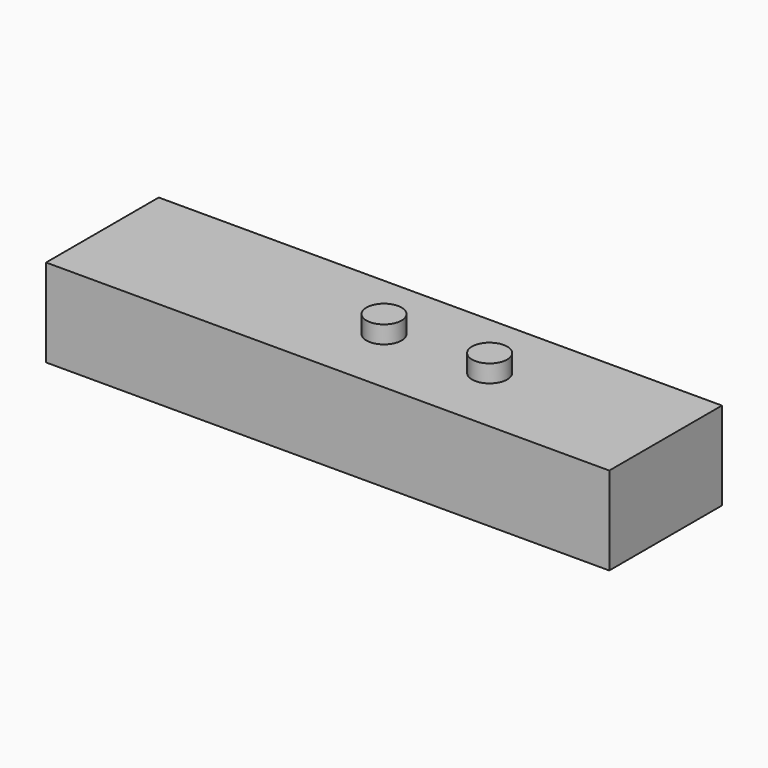
from build123d import *

# Parameters (mm, degrees)
F0_W     = 160
F0_H     = 40
F1_DEPTH = 25
F2_R     = 5
F3_DEPTH = 5


with BuildPart() as f1:
    # F0 (on Top) → F1 (new body)
    with BuildSketch(Plane.XY):
        Rectangle(F0_W, F0_H)
    extrude(amount=F1_DEPTH)

    # F2 (on face) → F3 (join)
    with BuildSketch(Plane.XY.offset(25)):
        Circle(F2_R)
        with BuildLine():
            ThreePointArc((35, 0), (30, 5), (25, 0))
            ThreePointArc((25, 0), (30, -5), (35, 0))
        make_face()
    extrude(amount=F3_DEPTH)


solid = f1.part
